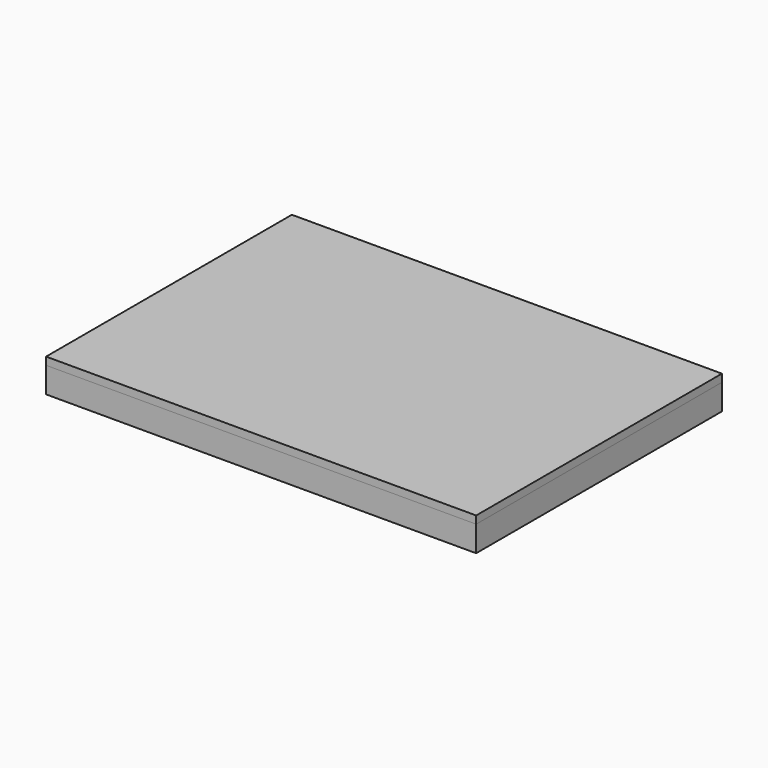
from build123d import *

# Parameters (mm, degrees)
F0_W     = 1066.8
F0_H     = 762
F0_W_2   = 939.8
F0_H_2   = 635
F1_DEPTH = 63.5
F2_W     = 933.45
F2_H     = 88.9
F3_DEPTH = 38.1
F5_W     = 88.9
F5_H     = 450.85
F6_DEPTH = 38.1
F8_W     = 1066.8
F8_H     = 762
F9_DEPTH = 19.05


with BuildPart() as f1:
    # F0 (on Top) → F1 (new body)
    with BuildSketch(Plane.XY):
        Rectangle(F0_W, F0_H)
        Rectangle(F0_W_2, F0_H_2, mode=Mode.SUBTRACT)
    extrude(amount=F1_DEPTH)


with BuildPart() as f3:
    # F2 (on face) → F3 (new body)
    with BuildSketch(Plane.XY.offset(63.5)):
        with Locations((0, 269.875)):
            Rectangle(F2_W, F2_H)
    extrude(amount=-F3_DEPTH)


with BuildPart() as f4_1:
    # F4: instance of F3
    add(f3.part.mirror(Plane.XZ))


with BuildPart() as f6:
    # F5 (on face) → F6 (new body)
    with BuildSketch(Plane.XY.offset(63.5)):
        with Locations((-422.275, 0)):
            Rectangle(F5_W, F5_H)
    extrude(amount=-F6_DEPTH)


with BuildPart() as f7_1:
    # F7: instance of F6
    add(f6.part.mirror(Plane.YZ))


with BuildPart() as f9:
    # F8 (on face) → F9 (new body)
    with BuildSketch(Plane.XY.offset(63.5)):
        Rectangle(F8_W, F8_H)
    extrude(amount=F9_DEPTH)


solid = Compound([f1.part, f3.part, f4_1.part, f6.part, f7_1.part, f9.part])
